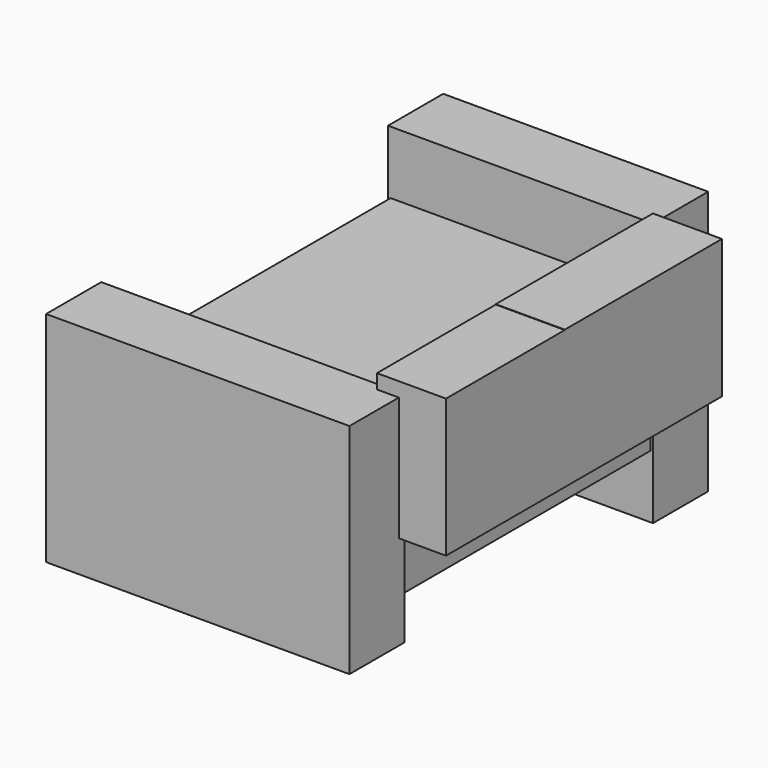
from build123d import *

# Parameters (mm, degrees)
F0_W       = 150.5549252033
F0_H       = 153.845757246
F1_DEPTH   = 40
F2_W       = 150.5549252033
F2_H       = 153.845757246
F3_DEPTH   = 40
F4_W       = 150.5549252033
F4_H       = 80
F4_R       = 2.7459354745
F3_FACE_W  = 150.5549252033
F3_FACE_H  = 80
F3_FACE1_W = 150.5549252033
F3_FACE1_H = 80
F5_DEPTH   = 40
F6_W       = 175.8493036032
F6_H       = 126.634541899
F7_DEPTH   = 40
F9_W       = 86.0539241694
F9_H       = 80.1538974047
F10_DEPTH  = 40
F11_W      = 113.8785094954
F11_H      = 80.3718343377
F12_DEPTH  = 40
F13_W      = 153.6099761724
F13_H      = 152.900993824
F14_DEPTH  = 40


with BuildPart() as f1:
    # F0 (on Top) → F1 (new body)
    with BuildSketch(Plane.XY):
        Rectangle(F0_W, F0_H)
    extrude(amount=F1_DEPTH)

    # F2 (on face) → F3 (join)
    with BuildSketch(Plane(origin=(0, 0, 0), x_dir=(1, 0, 0), z_dir=(0, 0, -1))):
        Rectangle(F2_W, F2_H)
    extrude(amount=F3_DEPTH)

    # F4 (on face) + F3_face (on face) + F3_face1 (on face) → F5 (join)
    with BuildSketch(Plane(origin=(0, 76.922878623, 0), x_dir=(-1, 0, 0), z_dir=(0, 1, 0))):
        Rectangle(F4_W, F4_H)
        Circle(F4_R, mode=Mode.SUBTRACT)
        Circle(F4_R)
    with BuildSketch(Plane(origin=(0, 76.922878623, 0), x_dir=(-1, 0, 0), z_dir=(0, 1, 0))):
        Rectangle(F3_FACE_W, F3_FACE_H)
    with BuildSketch(Plane.XZ.offset(76.922878623)):
        Rectangle(F3_FACE1_W, F3_FACE1_H)
    extrude(amount=F5_DEPTH, dir=(0, 1, 0))

    # F6 (on face) → F7 (join)
    with BuildSketch(Plane.XZ.offset(76.922878623)):
        with Locations((0, 8.4902700037)):
            Rectangle(F6_W, F6_H)
    extrude(amount=F7_DEPTH)

    # F9 (on face) → F10 (join)
    with BuildSketch(Plane.YZ.offset(75.2774626017)):
        with Locations((-38.1367646623, 40.0769487023)):
            Rectangle(F9_W, F9_H)
    extrude(amount=F10_DEPTH)

    # F11 (on face) → F12 (join)
    with BuildSketch(Plane.YZ.offset(75.2774626017)):
        with Locations((61.8294521701, 40.1859171689)):
            Rectangle(F11_W, F11_H)
    extrude(amount=F12_DEPTH)

    # F13 (on face) → F14 (join)
    with BuildSketch(Plane(origin=(0, 116.922878623, 0), x_dir=(-1, 0, 0), z_dir=(0, 1, 0))):
        Rectangle(F13_W, F13_H)
    extrude(amount=F14_DEPTH)


solid = f1.part
